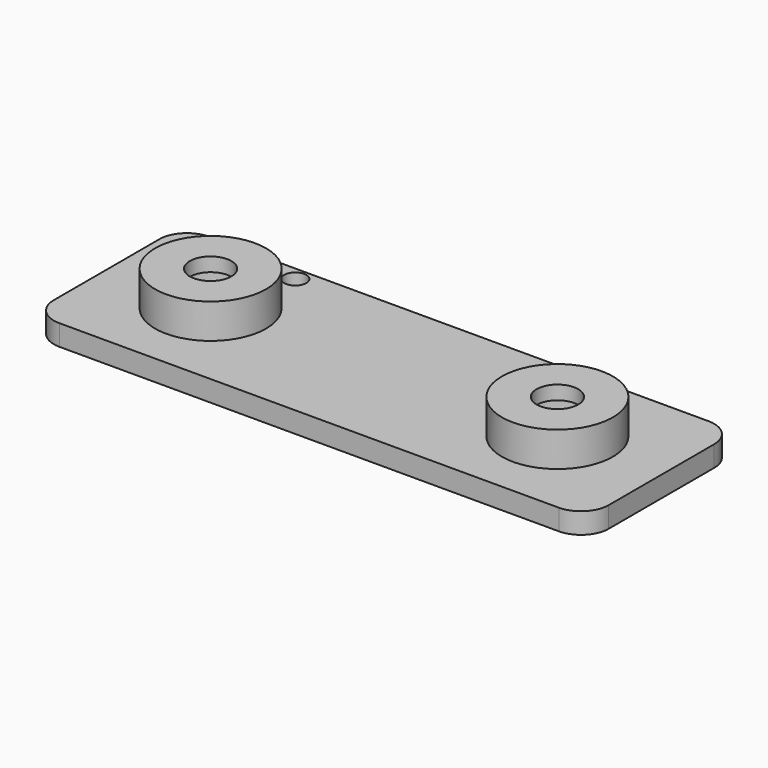
from build123d import *

# Parameters (mm, degrees)
SKETCH_W        = 40
SKETCH_H        = 13.5
PAD_DEPTH       = 1.5
FILLET_R        = 2
SKETCH001_R     = 0.8
POCKET_DEPTH    = 5
SKETCH002_R     = 4
PAD001_DEPTH    = 2.5
SKETCH003_R     = 1.5
POCKET001_DEPTH = 1
SKETCH004_R     = 3
POCKET002_DEPTH = 3


with BuildPart() as part:
    # Sketch → Pad (new body)
    with BuildSketch(Plane.XY):
        Rectangle(SKETCH_W, SKETCH_H)
    extrude(amount=PAD_DEPTH)

    # Fillet
    fillet_edges = [part.edges().sort_by_distance(p)[0] for p in [
        (-20, -6.75, 0.75),
        (-20, 6.75, 0.75),
        (20, 6.75, 0.75),
        (20, -6.75, 0.75),
    ]]
    fillet(fillet_edges, radius=FILLET_R)

    # Sketch001 (on Face5 of Fillet) → Pocket (cut)
    with BuildSketch(Plane.XY.offset(1.5)):
        with Locations((-11, 5.75)):
            Circle(SKETCH001_R)
    pocket = extrude(amount=-POCKET_DEPTH, mode=Mode.SUBTRACT)

    # Mirrored: Pocket across Sketch001 V_Axis
    add(pocket.mirror(Plane(origin=(0, 0, 1.5), x_dir=(0, 0, 1), z_dir=(1, 0, 0))), mode=Mode.SUBTRACT)

    # Sketch002 (on Face5 of Mirrored) → Pad001 (join)
    with BuildSketch(Plane.XY.offset(1.5)):
        with Locations((-12.5, 0)):
            Circle(SKETCH002_R)
    pad001 = extrude(amount=PAD001_DEPTH)

    # Mirrored001: Pad001 across Sketch002 V_Axis
    add(pad001.mirror(Plane(origin=(0, 0, 1.5), x_dir=(0, 0, 1), z_dir=(1, 0, 0))))

    # Sketch003 (on Face15 of Mirrored001) → Pocket001 (cut)
    with BuildSketch(Plane.XY.offset(4)):
        with Locations((-12.5, 0)):
            Circle(SKETCH003_R)
    pocket001 = extrude(amount=-POCKET001_DEPTH, mode=Mode.SUBTRACT)

    # Mirrored002: Pocket001 across Sketch003 V_Axis
    add(pocket001.mirror(Plane(origin=(0, 0, 4), x_dir=(0, 0, 1), z_dir=(1, 0, 0))), mode=Mode.SUBTRACT)

    # Sketch004 (on Face2 of Mirrored002) → Pocket002 (cut)
    with BuildSketch(Plane(origin=(0, 0, 0), x_dir=(1, 0, 0), z_dir=(0, 0, -1))):
        with Locations((-12.5, 0)):
            Circle(SKETCH004_R)
    pocket002 = extrude(amount=-POCKET002_DEPTH, mode=Mode.SUBTRACT)

    # Mirrored003: Pocket002 across Sketch004 V_Axis
    add(pocket002.mirror(Plane(origin=(0, 0, 0), x_dir=(0, 0, -1), z_dir=(1, 0, 0))), mode=Mode.SUBTRACT)


solid = part.part
